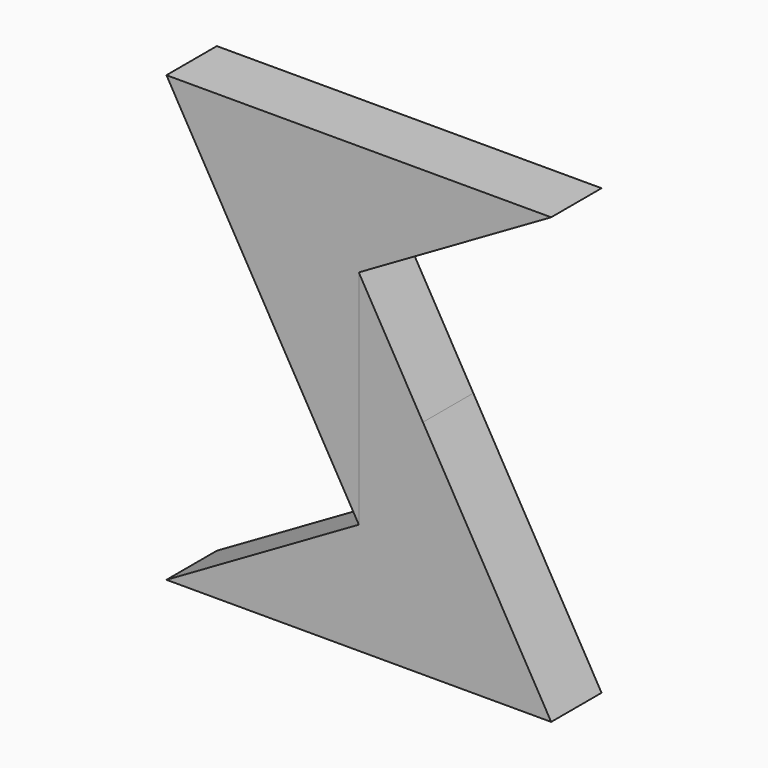
from build123d import *

# Parameters (mm, degrees)
F1_DEPTH = 5
F2_DEPTH = 5


with BuildPart() as f1:
    # F0 (on Front) → F1 (new body, symmetric)
    with BuildSketch(Plane.XZ):
        Polygon((0, 17.63419), (-10.181104, 0), (0, -17.63419), align=None)
        Polygon((30.543313, 35.26838), (-30.543313, 35.26838), (-10.181104, 0), (0, 17.63419), align=None)
    extrude(amount=F1_DEPTH, both=True)


with BuildPart() as f2:
    # F0 (on Front) → F2 (new body, symmetric)
    with BuildSketch(Plane.XZ):
        Polygon((0, -17.63419), (10.181104, 0), (0, 17.63419), align=None)
        Polygon((30.543313, -35.26838), (10.181104, 0), (0, -17.63419), (-30.543313, -35.26838), align=None)
    extrude(amount=F2_DEPTH, both=True)


solid = Compound([f1.part, f2.part])
